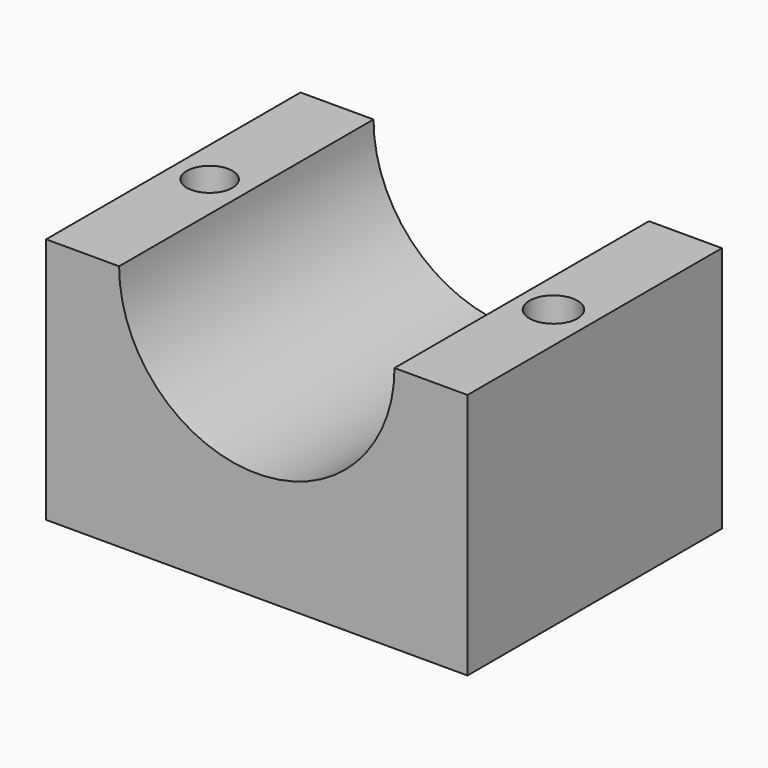
from build123d import *

# Parameters (mm, degrees)
F0_W     = 66.982273
F0_H     = 39.254546
F1_DEPTH = 50.546
F3_DEPTH = 60.198
F4_R     = 3.641507
F4_R_2   = 3.822226
F5_DEPTH = 136.652


with BuildPart() as f1:
    # F0 (on Front) → F1 (new body)
    with BuildSketch(Plane.XZ):
        with Locations((-36.711974, 30.826364)):
            Rectangle(F0_W, F0_H)
    extrude(amount=-F1_DEPTH)

    # F2 (on face) → F3 (cut)
    with BuildSketch(Plane.XZ):
        with BuildLine():
            ThreePointArc((-58.599127, 50.453637), (-36.711974, 28.566484), (-14.824822, 50.453637))
            Line((-14.824822, 50.453637), (-58.599127, 50.453637))
        make_face()
        with BuildLine():
            Line((-58.599127, 50.453637), (-14.824822, 50.453637))
            ThreePointArc((-14.824822, 50.453637), (-36.711974, 72.34079), (-58.599127, 50.453637))
        make_face()
    extrude(amount=-F3_DEPTH, mode=Mode.SUBTRACT)

    # F4 (on face) → F5 (cut)
    with BuildSketch(Plane.XY.offset(50.453637)):
        with Locations((-64.423636, 25.273)):
            Circle(F4_R)
        with Locations((-9.236364, 24.591818)):
            Circle(F4_R_2)
    extrude(amount=-F5_DEPTH, mode=Mode.SUBTRACT)


solid = f1.part
